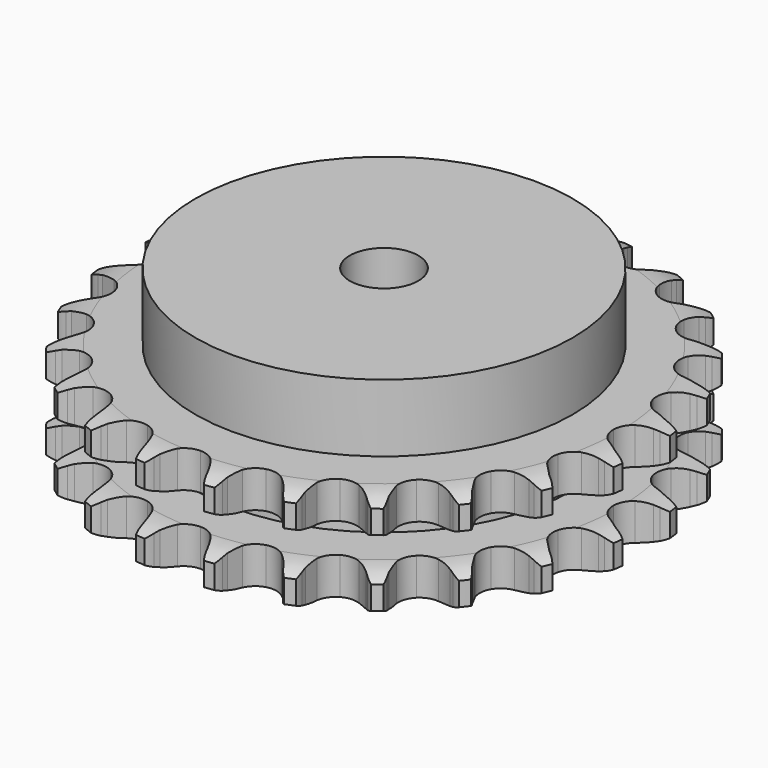
from build123d import *

# Parameters (mm, degrees)
PAD_DEPTH         = 30.3
SKETCH001_R       = 55
PAD001_DEPTH      = 50
SKETCH002_R       = 10
POCKET_DEPTH      = 0.001
POCKET_DEPTH_BACK = 50.001


with BuildPart() as part:
    # Sprocket → Pad (new body)
    with BuildSketch(Plane.XY):
        with BuildLine():
            ThreePointArc((-10.307817, 78.29564), (-8.698653, 76.541305), (-7.554291, 74.453833))
            Line((-7.554291, 74.453833), (-6.968236, 72.99106))
            ThreePointArc((-6.968236, 72.99106), (-6.032923, 71.051956), (-4.842054, 69.258421))
            ThreePointArc((-4.842054, 69.258421), (-2.69941, 67.499998), (0, 66.870584))
            ThreePointArc((0, 66.870584), (2.69941, 67.499998), (4.842054, 69.258421))
            ThreePointArc((4.842054, 69.258421), (6.032923, 71.051956), (6.968236, 72.99106))
            Line((6.968236, 72.99106), (7.554291, 74.453833))
            ThreePointArc((7.554291, 74.453833), (8.698653, 76.541305), (10.307817, 78.29564))
            ThreePointArc((10.307817, 78.29564), (11.408094, 76.1846), (11.973185, 73.872074))
            Line((11.973185, 73.872074), (12.160677, 72.307462))
            ThreePointArc((12.160677, 72.307462), (12.562243, 70.192354), (13.248334, 68.151713))
            ThreePointArc((13.248334, 68.151713), (14.862856, 65.89865), (17.307381, 64.592024))
            ThreePointArc((17.307381, 64.592024), (20.077714, 64.501333), (22.602463, 65.645282))
            Line((22.602463, 65.645282), (25.622276, 68.700438))
            ThreePointArc((25.622276, 68.700438), (26.078841, 69.342877), (26.566954, 69.961685))
            ThreePointArc((26.566954, 69.961685), (28.212601, 71.681846), (30.220989, 72.959922))
            ThreePointArc((30.220989, 72.959922), (30.737398, 70.63604), (30.684708, 68.256056))
            Line((30.684708, 68.256056), (30.46086, 66.696231))
            ThreePointArc((30.46086, 66.696231), (30.301313, 64.54926), (30.435869, 62.400579))
            ThreePointArc((30.435869, 62.400579), (31.412242, 59.806418), (33.435292, 57.911625))
            ThreePointArc((33.435292, 57.911625), (36.087756, 57.107009), (38.822552, 57.558525))
            Line((38.822552, 57.558525), (42.5302, 59.727994))
            ThreePointArc((42.5302, 59.727994), (43.137483, 60.230375), (43.769124, 60.701765))
            ThreePointArc((43.769124, 60.701765), (45.803906, 61.937388), (48.074651, 62.652105))
            ThreePointArc((48.074651, 62.652105), (47.971999, 60.273752), (47.30512, 57.9885))
            Line((47.30512, 57.9885), (46.685186, 56.539761))
            ThreePointArc((46.685186, 56.539761), (45.975399, 54.507241), (45.54925, 52.396948))
            ThreePointArc((45.54925, 52.396948), (45.820936, 49.638477), (47.284644, 47.284644))
            ThreePointArc((47.284644, 47.284644), (49.638477, 45.820936), (52.396948, 45.54925))
            Line((52.396948, 45.54925), (56.539761, 46.685186))
            ThreePointArc((56.539761, 46.685186), (57.256377, 47.013272), (57.9885, 47.30512))
            ThreePointArc((57.9885, 47.30512), (60.273752, 47.971999), (62.652105, 48.074651))
            ThreePointArc((62.652105, 48.074651), (61.937388, 45.803906), (60.701765, 43.769124))
            Line((60.701765, 43.769124), (59.727994, 42.5302))
            ThreePointArc((59.727994, 42.5302), (58.516337, 40.750643), (57.558525, 38.822552))
            ThreePointArc((57.558525, 38.822552), (57.107009, 36.087756), (57.911625, 33.435292))
            ThreePointArc((57.911625, 33.435292), (59.806418, 31.412242), (62.400579, 30.435869))
            Line((62.400579, 30.435869), (66.696231, 30.46086))
            ThreePointArc((66.696231, 30.46086), (67.473344, 30.592293), (68.256056, 30.684708))
            ThreePointArc((68.256056, 30.684708), (70.63604, 30.737398), (72.959922, 30.220989))
            ThreePointArc((72.959922, 30.220989), (71.681846, 28.212601), (69.961685, 26.566954))
            Line((69.961685, 26.566954), (68.700438, 25.622276))
            ThreePointArc((68.700438, 25.622276), (67.069483, 24.216956), (65.645282, 22.602463))
            ThreePointArc((65.645282, 22.602463), (64.501333, 20.077714), (64.592024, 17.307381))
            ThreePointArc((64.592024, 17.307381), (65.89865, 14.862856), (68.151713, 13.248334))
            Line((68.151713, 13.248334), (72.307462, 12.160677))
            ThreePointArc((72.307462, 12.160677), (73.092113, 12.0865), (73.872074, 11.973185))
            ThreePointArc((73.872074, 11.973185), (76.1846, 11.408094), (78.29564, 10.307817))
            ThreePointArc((78.29564, 10.307817), (76.541305, 8.698653), (74.453833, 7.554291))
            Line((74.453833, 7.554291), (72.99106, 6.968236))
            ThreePointArc((72.99106, 6.968236), (71.051956, 6.032923), (69.258421, 4.842054))
            ThreePointArc((69.258421, 4.842054), (67.499998, 2.69941), (66.870584, 0))
            ThreePointArc((66.870584, 0), (67.499998, -2.69941), (69.258421, -4.842054))
            Line((69.258421, -4.842054), (72.99106, -6.968236))
            ThreePointArc((72.99106, -6.968236), (73.729776, -7.242969), (74.453833, -7.554291))
            ThreePointArc((74.453833, -7.554291), (76.541305, -8.698653), (78.29564, -10.307817))
            ThreePointArc((78.29564, -10.307817), (76.1846, -11.408094), (73.872074, -11.973185))
            Line((73.872074, -11.973185), (72.307462, -12.160677))
            ThreePointArc((72.307462, -12.160677), (70.192354, -12.562243), (68.151713, -13.248334))
            ThreePointArc((68.151713, -13.248334), (65.89865, -14.862856), (64.592024, -17.307381))
            ThreePointArc((64.592024, -17.307381), (64.501333, -20.077714), (65.645282, -22.602463))
            Line((65.645282, -22.602463), (68.700438, -25.622276))
            ThreePointArc((68.700438, -25.622276), (69.342877, -26.078841), (69.961685, -26.566954))
            ThreePointArc((69.961685, -26.566954), (71.681846, -28.212601), (72.959922, -30.220989))
            ThreePointArc((72.959922, -30.220989), (70.63604, -30.737398), (68.256056, -30.684708))
            Line((68.256056, -30.684708), (66.696231, -30.46086))
            ThreePointArc((66.696231, -30.46086), (64.54926, -30.301313), (62.400579, -30.435869))
            ThreePointArc((62.400579, -30.435869), (59.806418, -31.412242), (57.911625, -33.435292))
            ThreePointArc((57.911625, -33.435292), (57.107009, -36.087756), (57.558525, -38.822552))
            Line((57.558525, -38.822552), (59.727994, -42.5302))
            ThreePointArc((59.727994, -42.5302), (60.230375, -43.137483), (60.701765, -43.769124))
            ThreePointArc((60.701765, -43.769124), (61.937388, -45.803906), (62.652105, -48.074651))
            ThreePointArc((62.652105, -48.074651), (60.273752, -47.971999), (57.9885, -47.30512))
            Line((57.9885, -47.30512), (56.539761, -46.685186))
            ThreePointArc((56.539761, -46.685186), (54.507241, -45.975399), (52.396948, -45.54925))
            ThreePointArc((52.396948, -45.54925), (49.638477, -45.820936), (47.284644, -47.284644))
            ThreePointArc((47.284644, -47.284644), (45.820936, -49.638477), (45.54925, -52.396948))
            Line((45.54925, -52.396948), (46.685186, -56.539761))
            ThreePointArc((46.685186, -56.539761), (47.013272, -57.256377), (47.30512, -57.9885))
            ThreePointArc((47.30512, -57.9885), (47.971999, -60.273752), (48.074651, -62.652105))
            ThreePointArc((48.074651, -62.652105), (45.803906, -61.937388), (43.769124, -60.701765))
            Line((43.769124, -60.701765), (42.5302, -59.727994))
            ThreePointArc((42.5302, -59.727994), (40.750643, -58.516337), (38.822552, -57.558525))
            ThreePointArc((38.822552, -57.558525), (36.087756, -57.107009), (33.435292, -57.911625))
            ThreePointArc((33.435292, -57.911625), (31.412242, -59.806418), (30.435869, -62.400579))
            Line((30.435869, -62.400579), (30.46086, -66.696231))
            ThreePointArc((30.46086, -66.696231), (30.592293, -67.473344), (30.684708, -68.256056))
            ThreePointArc((30.684708, -68.256056), (30.737398, -70.63604), (30.220989, -72.959922))
            ThreePointArc((30.220989, -72.959922), (28.212601, -71.681846), (26.566954, -69.961685))
            Line((26.566954, -69.961685), (25.622276, -68.700438))
            ThreePointArc((25.622276, -68.700438), (24.216956, -67.069483), (22.602463, -65.645282))
            ThreePointArc((22.602463, -65.645282), (20.077714, -64.501333), (17.307381, -64.592024))
            ThreePointArc((17.307381, -64.592024), (14.862856, -65.89865), (13.248334, -68.151713))
            Line((13.248334, -68.151713), (12.160677, -72.307462))
            ThreePointArc((12.160677, -72.307462), (12.0865, -73.092113), (11.973185, -73.872074))
            ThreePointArc((11.973185, -73.872074), (11.408094, -76.1846), (10.307817, -78.29564))
            ThreePointArc((10.307817, -78.29564), (8.698653, -76.541305), (7.554291, -74.453833))
            Line((7.554291, -74.453833), (6.968236, -72.99106))
            ThreePointArc((6.968236, -72.99106), (6.032923, -71.051956), (4.842054, -69.258421))
            ThreePointArc((4.842054, -69.258421), (2.69941, -67.499998), (0, -66.870584))
            ThreePointArc((0, -66.870584), (-2.69941, -67.499998), (-4.842054, -69.258421))
            Line((-4.842054, -69.258421), (-6.968236, -72.99106))
            ThreePointArc((-6.968236, -72.99106), (-7.242969, -73.729776), (-7.554291, -74.453833))
            ThreePointArc((-7.554291, -74.453833), (-8.698653, -76.541305), (-10.307817, -78.29564))
            ThreePointArc((-10.307817, -78.29564), (-11.408094, -76.1846), (-11.973185, -73.872074))
            Line((-11.973185, -73.872074), (-12.160677, -72.307462))
            ThreePointArc((-12.160677, -72.307462), (-12.562243, -70.192354), (-13.248334, -68.151713))
            ThreePointArc((-13.248334, -68.151713), (-14.862856, -65.89865), (-17.307381, -64.592024))
            ThreePointArc((-17.307381, -64.592024), (-20.077714, -64.501333), (-22.602463, -65.645282))
            Line((-22.602463, -65.645282), (-25.622276, -68.700438))
            ThreePointArc((-25.622276, -68.700438), (-26.078841, -69.342877), (-26.566954, -69.961685))
            ThreePointArc((-26.566954, -69.961685), (-28.212601, -71.681846), (-30.220989, -72.959922))
            ThreePointArc((-30.220989, -72.959922), (-30.737398, -70.63604), (-30.684708, -68.256056))
            Line((-30.684708, -68.256056), (-30.46086, -66.696231))
            ThreePointArc((-30.46086, -66.696231), (-30.301313, -64.54926), (-30.435869, -62.400579))
            ThreePointArc((-30.435869, -62.400579), (-31.412242, -59.806418), (-33.435292, -57.911625))
            ThreePointArc((-33.435292, -57.911625), (-36.087756, -57.107009), (-38.822552, -57.558525))
            Line((-38.822552, -57.558525), (-42.5302, -59.727994))
            ThreePointArc((-42.5302, -59.727994), (-43.137483, -60.230375), (-43.769124, -60.701765))
            ThreePointArc((-43.769124, -60.701765), (-45.803906, -61.937388), (-48.074651, -62.652105))
            ThreePointArc((-48.074651, -62.652105), (-47.971999, -60.273752), (-47.30512, -57.9885))
            Line((-47.30512, -57.9885), (-46.685186, -56.539761))
            ThreePointArc((-46.685186, -56.539761), (-45.975399, -54.507241), (-45.54925, -52.396948))
            ThreePointArc((-45.54925, -52.396948), (-45.820936, -49.638477), (-47.284644, -47.284644))
            ThreePointArc((-47.284644, -47.284644), (-49.638477, -45.820936), (-52.396948, -45.54925))
            Line((-52.396948, -45.54925), (-56.539761, -46.685186))
            ThreePointArc((-56.539761, -46.685186), (-57.256377, -47.013272), (-57.9885, -47.30512))
            ThreePointArc((-57.9885, -47.30512), (-60.273752, -47.971999), (-62.652105, -48.074651))
            ThreePointArc((-62.652105, -48.074651), (-61.937388, -45.803906), (-60.701765, -43.769124))
            Line((-60.701765, -43.769124), (-59.727994, -42.5302))
            ThreePointArc((-59.727994, -42.5302), (-58.516337, -40.750643), (-57.558525, -38.822552))
            ThreePointArc((-57.558525, -38.822552), (-57.107009, -36.087756), (-57.911625, -33.435292))
            ThreePointArc((-57.911625, -33.435292), (-59.806418, -31.412242), (-62.400579, -30.435869))
            Line((-62.400579, -30.435869), (-66.696231, -30.46086))
            ThreePointArc((-66.696231, -30.46086), (-67.473344, -30.592293), (-68.256056, -30.684708))
            ThreePointArc((-68.256056, -30.684708), (-70.63604, -30.737398), (-72.959922, -30.220989))
            ThreePointArc((-72.959922, -30.220989), (-71.681846, -28.212601), (-69.961685, -26.566954))
            Line((-69.961685, -26.566954), (-68.700438, -25.622276))
            ThreePointArc((-68.700438, -25.622276), (-67.069483, -24.216956), (-65.645282, -22.602463))
            ThreePointArc((-65.645282, -22.602463), (-64.501333, -20.077714), (-64.592024, -17.307381))
            ThreePointArc((-64.592024, -17.307381), (-65.89865, -14.862856), (-68.151713, -13.248334))
            Line((-68.151713, -13.248334), (-72.307462, -12.160677))
            ThreePointArc((-72.307462, -12.160677), (-73.092113, -12.0865), (-73.872074, -11.973185))
            ThreePointArc((-73.872074, -11.973185), (-76.1846, -11.408094), (-78.29564, -10.307817))
            ThreePointArc((-78.29564, -10.307817), (-76.541305, -8.698653), (-74.453833, -7.554291))
            Line((-74.453833, -7.554291), (-72.99106, -6.968236))
            ThreePointArc((-72.99106, -6.968236), (-71.051956, -6.032923), (-69.258421, -4.842054))
            ThreePointArc((-69.258421, -4.842054), (-67.499998, -2.69941), (-66.870584, 0))
            ThreePointArc((-66.870584, 0), (-67.499998, 2.69941), (-69.258421, 4.842054))
            Line((-69.258421, 4.842054), (-72.99106, 6.968236))
            ThreePointArc((-72.99106, 6.968236), (-73.729776, 7.242969), (-74.453833, 7.554291))
            ThreePointArc((-74.453833, 7.554291), (-76.541305, 8.698653), (-78.29564, 10.307817))
            ThreePointArc((-78.29564, 10.307817), (-76.1846, 11.408094), (-73.872074, 11.973185))
            Line((-73.872074, 11.973185), (-72.307462, 12.160677))
            ThreePointArc((-72.307462, 12.160677), (-70.192354, 12.562243), (-68.151713, 13.248334))
            ThreePointArc((-68.151713, 13.248334), (-65.89865, 14.862856), (-64.592024, 17.307381))
            ThreePointArc((-64.592024, 17.307381), (-64.501333, 20.077714), (-65.645282, 22.602463))
            Line((-65.645282, 22.602463), (-68.700438, 25.622276))
            ThreePointArc((-68.700438, 25.622276), (-69.342877, 26.078841), (-69.961685, 26.566954))
            ThreePointArc((-69.961685, 26.566954), (-71.681846, 28.212601), (-72.959922, 30.220989))
            ThreePointArc((-72.959922, 30.220989), (-70.63604, 30.737398), (-68.256056, 30.684708))
            Line((-68.256056, 30.684708), (-66.696231, 30.46086))
            ThreePointArc((-66.696231, 30.46086), (-64.54926, 30.301313), (-62.400579, 30.435869))
            ThreePointArc((-62.400579, 30.435869), (-59.806418, 31.412242), (-57.911625, 33.435292))
            ThreePointArc((-57.911625, 33.435292), (-57.107009, 36.087756), (-57.558525, 38.822552))
            Line((-57.558525, 38.822552), (-59.727994, 42.5302))
            ThreePointArc((-59.727994, 42.5302), (-60.230375, 43.137483), (-60.701765, 43.769124))
            ThreePointArc((-60.701765, 43.769124), (-61.937388, 45.803906), (-62.652105, 48.074651))
            ThreePointArc((-62.652105, 48.074651), (-60.273752, 47.971999), (-57.9885, 47.30512))
            Line((-57.9885, 47.30512), (-56.539761, 46.685186))
            ThreePointArc((-56.539761, 46.685186), (-54.507241, 45.975399), (-52.396948, 45.54925))
            ThreePointArc((-52.396948, 45.54925), (-49.638477, 45.820936), (-47.284644, 47.284644))
            ThreePointArc((-47.284644, 47.284644), (-45.820936, 49.638477), (-45.54925, 52.396948))
            Line((-45.54925, 52.396948), (-46.685186, 56.539761))
            ThreePointArc((-46.685186, 56.539761), (-47.013272, 57.256377), (-47.30512, 57.9885))
            ThreePointArc((-47.30512, 57.9885), (-47.971999, 60.273752), (-48.074651, 62.652105))
            ThreePointArc((-48.074651, 62.652105), (-45.803906, 61.937388), (-43.769124, 60.701765))
            Line((-43.769124, 60.701765), (-42.5302, 59.727994))
            ThreePointArc((-42.5302, 59.727994), (-40.750643, 58.516337), (-38.822552, 57.558525))
            ThreePointArc((-38.822552, 57.558525), (-36.087756, 57.107009), (-33.435292, 57.911625))
            ThreePointArc((-33.435292, 57.911625), (-31.412242, 59.806418), (-30.435869, 62.400579))
            Line((-30.435869, 62.400579), (-30.46086, 66.696231))
            ThreePointArc((-30.46086, 66.696231), (-30.592293, 67.473344), (-30.684708, 68.256056))
            ThreePointArc((-30.684708, 68.256056), (-30.737398, 70.63604), (-30.220989, 72.959922))
            ThreePointArc((-30.220989, 72.959922), (-28.212601, 71.681846), (-26.566954, 69.961685))
            Line((-26.566954, 69.961685), (-25.622276, 68.700438))
            ThreePointArc((-25.622276, 68.700438), (-24.216956, 67.069483), (-22.602463, 65.645282))
            ThreePointArc((-22.602463, 65.645282), (-20.077714, 64.501333), (-17.307381, 64.592024))
            ThreePointArc((-17.307381, 64.592024), (-14.862856, 65.89865), (-13.248334, 68.151713))
            Line((-13.248334, 68.151713), (-12.160677, 72.307462))
            ThreePointArc((-12.160677, 72.307462), (-12.0865, 73.092113), (-11.973185, 73.872074))
            ThreePointArc((-11.973185, 73.872074), (-11.408094, 76.1846), (-10.307817, 78.29564))
        make_face()
    extrude(amount=PAD_DEPTH)

    # Sketch → Groove (revolve, cut)
    with BuildSketch(Plane.XZ):
        with BuildLine():
            ThreePointArc((68.464719, 0), (72.823618, 0.506758), (76.95, 2))
            Line((76.95, 2), (76.95, 8.8))
            ThreePointArc((76.95, 8.8), (72.823618, 10.293242), (68.464719, 10.8))
            Line((55, 10.8), (68.464719, 10.8))
            Line((55, 19.5), (55, 10.8))
            Line((68.464719, 19.5), (55, 19.5))
            ThreePointArc((68.464719, 19.5), (72.823618, 20.006758), (76.95, 21.5))
            Line((76.95, 21.5), (76.95, 28.3))
            ThreePointArc((76.95, 28.3), (72.823618, 29.793242), (68.464719, 30.3))
            Line((68.464719, 30.3), (86.95, 30.3))
            Line((86.95, 30.3), (86.95, 0))
            Line((68.464719, 0), (86.95, 0))
        make_face()
    revolve(axis=Axis((0, 0, 0), (0, 0, 1)), mode=Mode.SUBTRACT)

    # Sketch001 → Pad001 (join)
    with BuildSketch(Plane.XY):
        Circle(SKETCH001_R)
    extrude(amount=PAD001_DEPTH)

    # Sketch002 → Pocket (cut, two sides)
    with BuildSketch(Plane.XY) as pocket_sk:
        Circle(SKETCH002_R)
    extrude(amount=-POCKET_DEPTH, mode=Mode.SUBTRACT)
    extrude(pocket_sk.sketch, amount=POCKET_DEPTH_BACK, mode=Mode.SUBTRACT)


solid = part.part
